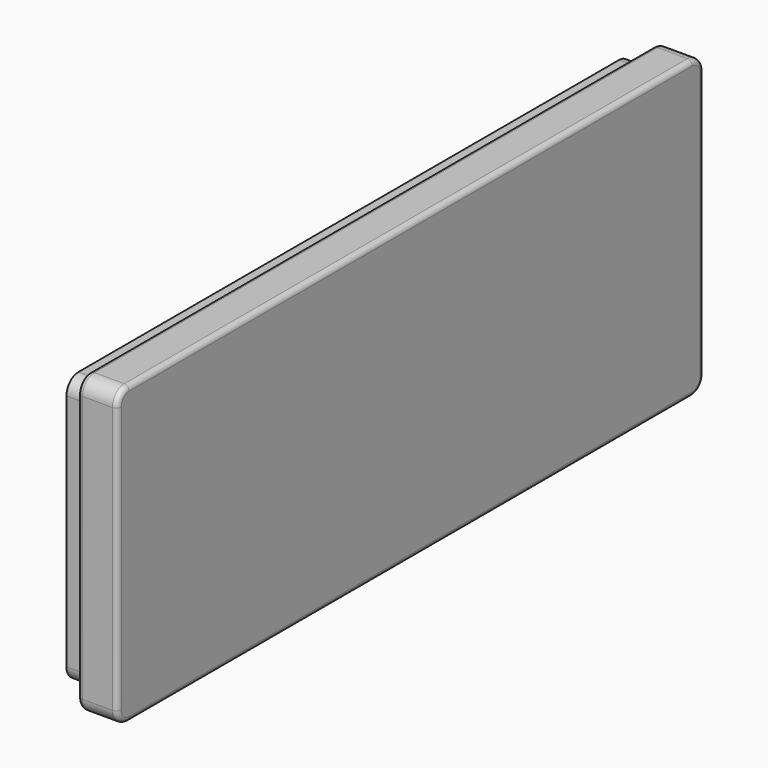
from build123d import *

# Parameters (mm, degrees)
PAD_DEPTH    = 4.5
PAD001_DEPTH = 8
FILLET_R     = 1


with BuildPart() as part:
    # Sketch → Pad (new body)
    with BuildSketch(Plane.YZ):
        with BuildLine():
            Line((-65, 27), (71, 27))
            ThreePointArc((74, 24), (73.12132, 26.12132), (71, 27))
            Line((74, 24), (74, -24))
            ThreePointArc((71, -27), (73.12132, -26.12132), (74, -24))
            Line((71, -27), (-65, -27))
            ThreePointArc((-68, -24), (-67.12132, -26.12132), (-65, -27))
            Line((-68, -24), (-68, 24))
            ThreePointArc((-65, 27), (-67.12132, 26.12132), (-68, 24))
        make_face()
    extrude(amount=-PAD_DEPTH)

    # Sketch001 → Pad001 (join)
    with BuildSketch(Plane.YZ):
        with BuildLine():
            Line((-67.828427, 29.828427), (73.828427, 29.828427))
            ThreePointArc((76.828427, 26.828427), (75.949747, 28.949747), (73.828427, 29.828427))
            Line((76.828427, 26.828427), (76.828427, -26.828427))
            ThreePointArc((73.828427, -29.828427), (75.949747, -28.949747), (76.828427, -26.828427))
            Line((73.828427, -29.828427), (-67.828427, -29.828427))
            ThreePointArc((-70.828427, -26.828427), (-69.949747, -28.949747), (-67.828427, -29.828427))
            Line((-70.828427, -26.828427), (-70.828427, 26.828427))
            ThreePointArc((-67.828427, 29.828427), (-69.949747, 28.949747), (-70.828427, 26.828427))
        make_face()
    extrude(amount=PAD001_DEPTH)

    # Fillet
    fillet_edges = [part.edges().sort_by_distance(p)[0] for p in [
        (0, 3, 29.828427),
        (0, -69.949747, 28.949747),
        (0, -70.828427, 0),
        (8, -69.949747, 28.949747),
        (8, -70.828427, 0),
        (8, 3, 29.828427),
        (0, -69.949747, -28.949747),
        (8, -69.949747, -28.949747),
        (8, 3, -29.828427),
        (0, 3, -29.828427),
        (0, 75.949747, -28.949747),
        (8, 75.949747, -28.949747),
        (0, 76.828427, 0),
        (8, 76.828427, 0),
        (0, 75.949747, 28.949747),
        (8, 75.949747, 28.949747),
    ]]
    fillet(fillet_edges, radius=FILLET_R)


solid = part.part
